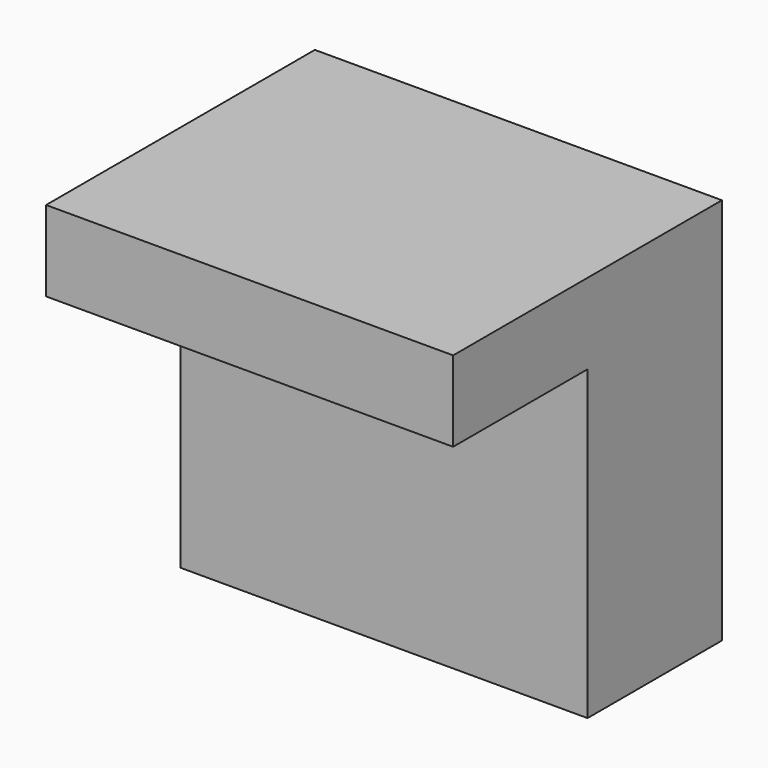
from build123d import *

# Parameters (mm, degrees)
F1_W     = 61.55309
F1_H     = 58.615133
F2_DEPTH = 25.4
F3_W     = 61.55309
F3_H     = 12.171417
F4_DEPTH = 25.4


with BuildPart() as f2:
    # F1 (on offset) → F2 (new body)
    with BuildSketch(Plane.XZ.offset(25.4)):
        with Locations((45.909398, 46.550103)):
            Rectangle(F1_W, F1_H)
    extrude(amount=F2_DEPTH)

    # F3 (on face) → F4 (join)
    with BuildSketch(Plane.XZ.offset(50.8)):
        with Locations((45.909398, 69.771961)):
            Rectangle(F3_W, F3_H)
    extrude(amount=F4_DEPTH)


solid = f2.part
